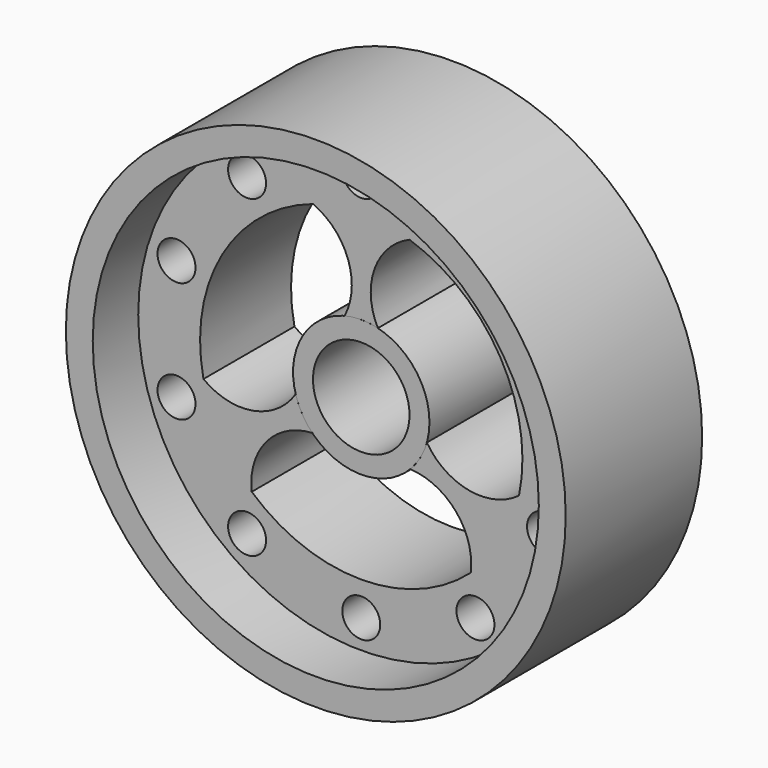
from build123d import *

# Parameters (mm, degrees)
F0_R     = 50.459269
F0_R_2   = 4.242185
F1_DEPTH = 25.4
F2_R     = 15.235749
F2_R_2   = 10.783118
F3_DEPTH = 25.4
F4_R     = 55.832634
F4_R_2   = 49.824979
F5_DEPTH = 38.1


with BuildPart() as f1:
    # F0 (on Front) → F1 (new body)
    with BuildSketch(Plane.XZ):
        Circle(F0_R)
        with Locations((-25.508015, -35.10877)):
            Circle(F0_R_2, mode=Mode.SUBTRACT)
        with Locations((0, -43.396827)):
            Circle(F0_R_2, mode=Mode.SUBTRACT)
        with Locations((-41.272835, -13.410357)):
            Circle(F0_R_2, mode=Mode.SUBTRACT)
        with BuildLine():
            ThreePointArc((-10.779512, 34.475856), (-2.954578, 26.164866), (-3.717073, 14.775366))
            ThreePointArc((-3.717073, 14.775366), (0, 15.235749), (3.717073, 14.775366))
            ThreePointArc((3.717073, 14.775366), (2.954578, 26.164866), (10.779512, 34.475856))
            ThreePointArc((10.779512, 34.475856), (31.07446, 17.940848), (35.246723, -7.902596))
            ThreePointArc((35.246723, -7.902596), (24.136728, -10.523693), (14.654378, -4.168603))
            ThreePointArc((14.654378, -4.168603), (13.194546, -7.617875), (10.937306, -10.606762))
            ThreePointArc((10.937306, -10.606762), (21.18215, -15.641173), (24.467211, -26.573259))
            ThreePointArc((24.467211, -26.573259), (0, -35.881695), (-24.467211, -26.573259))
            ThreePointArc((-24.467211, -26.573259), (-21.18215, -15.641173), (-10.937306, -10.606762))
            ThreePointArc((-10.937306, -10.606762), (-13.194546, -7.617875), (-14.654378, -4.168603))
            ThreePointArc((-14.654378, -4.168603), (-24.136728, -10.523693), (-35.246723, -7.902596))
            ThreePointArc((-35.246723, -7.902596), (-31.07446, 17.940848), (-10.779512, 34.475856))
        make_face(mode=Mode.SUBTRACT)
        with Locations((25.508015, -35.10877)):
            Circle(F0_R_2, mode=Mode.SUBTRACT)
        with Locations((41.272835, -13.410357)):
            Circle(F0_R_2, mode=Mode.SUBTRACT)
        with Locations((-41.272835, 13.410357)):
            Circle(F0_R_2, mode=Mode.SUBTRACT)
        with Locations((-25.508015, 35.10877)):
            Circle(F0_R_2, mode=Mode.SUBTRACT)
        with Locations((0, 43.396827)):
            Circle(F0_R_2, mode=Mode.SUBTRACT)
        with Locations((41.272835, 13.410357)):
            Circle(F0_R_2, mode=Mode.SUBTRACT)
        with Locations((25.508015, 35.10877)):
            Circle(F0_R_2, mode=Mode.SUBTRACT)
    extrude(amount=F1_DEPTH)

    # F4 (on Front) → F5 (join)
    with BuildSketch(Plane.XZ):
        Circle(F4_R)
        Circle(F4_R_2, mode=Mode.SUBTRACT)
    extrude(amount=F5_DEPTH)


with BuildPart() as f3:
    # F2 (on face) → F3 (new body)
    with BuildSketch(Plane.XZ.offset(25.4)):
        Circle(F2_R)
        Circle(F2_R_2, mode=Mode.SUBTRACT)
    extrude(amount=-F3_DEPTH)


solid = Compound([f1.part, f3.part])
